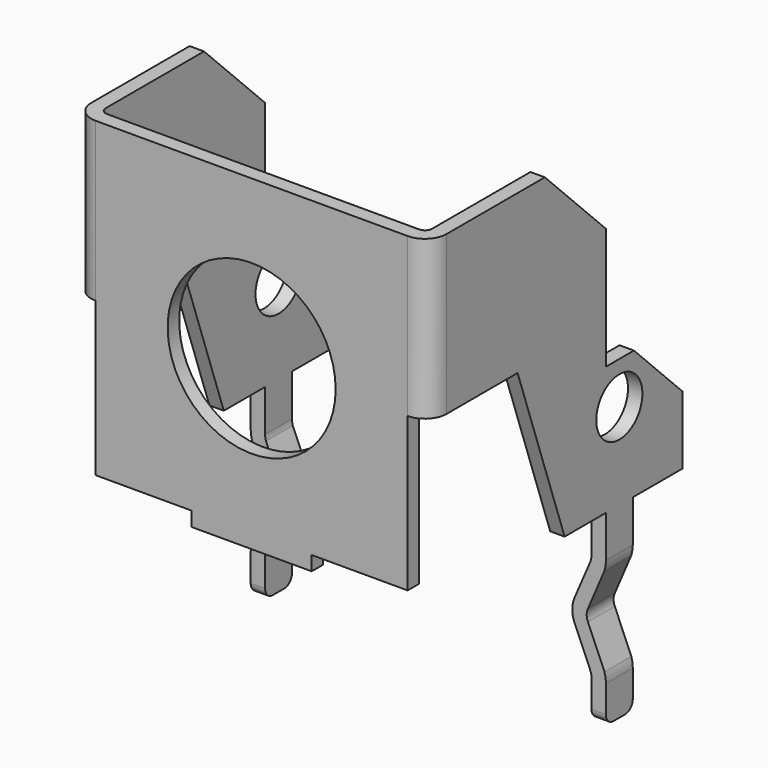
from build123d import *

# Parameters (mm, degrees)
PAD_DEPTH       = 3.7
POCKET_DEPTH    = 10.701
POCKET001_DEPTH = 1
POCKET002_DEPTH = 1
SKETCH004_R     = 0.6
POCKET003_DEPTH = 7.401
FILLET_R        = 0.45
SKETCH005_R     = 1.75
POCKET004_DEPTH = 6.601


with BuildPart() as part:
    # Sketch → Pad (new body, symmetric)
    with BuildSketch(Plane.YZ):
        with BuildLine():
            Line((-4.95, 0), (-4.95, 6.8))
            Line((-4.95, 6.8), (-1.94, 6.8))
            Line((-1.94, 6.8), (-0.35, 5.21))
            Line((-0.35, 5.21), (-0.35, 2.68))
            Line((-0.35, 2.68), (0.38, 2.68))
            Line((0.38, 2.68), (1.65, 1.41))
            Line((1.65, 1.41), (1.65, 0))
            Line((1.65, 0), (0.35, 0))
            Line((0.35, 0), (0.35, -3.7))
            ThreePointArc((0.15, -3.9), (0.291421, -3.841421), (0.35, -3.7))
            Line((0.15, -3.9), (-0.15, -3.9))
            ThreePointArc((-0.35, -3.7), (-0.291421, -3.841421), (-0.15, -3.9))
            Line((-0.35, -3.7), (-0.35, 0))
            Line((-0.35, 0), (-1.425, 0))
            Line((-1.425, 0), (-2.65, 3.5))
            Line((-2.65, 3.5), (-4.65, 3.5))
            Line((-4.65, 3.5), (-4.65, 0))
            Line((-4.65, 0), (-4.95, 0))
        make_face()
    extrude(amount=PAD_DEPTH, both=True)

    # Sketch001 (on Face8 of Pad) → Pocket (cut, through all)
    with BuildSketch(Plane(origin=(0, 0, 6.8), x_dir=(0, -1, 0), z_dir=(0, 0, 1))):
        with BuildLine():
            Line((-2.38, -3.4), (-0.35, -3.4))
            Line((-0.35, -3.4), (-0.35, -3))
            Line((-0.35, -3), (0.35, -3))
            Line((0.35, -3), (0.35, -3.4))
            Line((0.35, -3.4), (4.5, -3.4))
            ThreePointArc((4.5, -3.4), (4.606066, -3.356066), (4.65, -3.25))
            Line((4.65, -3.25), (4.65, 3.25))
            ThreePointArc((4.65, 3.25), (4.606066, 3.356066), (4.5, 3.4))
            Line((4.5, 3.4), (0.35, 3.4))
            Line((0.35, 3.4), (0.35, 3))
            Line((0.35, 3), (-0.38, 3))
            Line((-0.38, 3), (-0.38, 3.4))
            Line((-0.38, 3.4), (-2.38, 3.4))
            Line((-2.38, 3.4), (-2.38, -3.4))
        make_face()
    extrude(amount=-POCKET_DEPTH, mode=Mode.SUBTRACT)

    # Sketch002 (on Face33 of Pocket) → Pocket001 (cut, symmetric)
    with BuildSketch(Plane.ZX.offset(0.35)):
        with BuildLine():
            Line((-4.2, 3.4), (-3.13, 3.4))
            ThreePointArc((-3.013051, 3.382522), (-3.070876, 3.395606), (-3.13, 3.4))
            Line((-3.013051, 3.382522), (-2.244042, 3.051873))
            ThreePointArc((-2.244042, 3.051873), (-2, 3), (-1.755958, 3.051873))
            Line((-1.755958, 3.051873), (-0.986949, 3.382522))
            ThreePointArc((-0.87, 3.4), (-0.929124, 3.395606), (-0.986949, 3.382522))
            Line((-0.87, 3.4), (2.68, 3.4))
            Line((2.68, 3.4), (2.98, 3.4))
            Line((2.98, 3.4), (2.98, 2.7))
            Line((2.98, 2.7), (-4.2, 2.7))
            Line((-4.2, 2.7), (-4.2, 3))
            Line((-4.2, 3), (-4.2, 3.4))
        make_face()
        with BuildLine():
            ThreePointArc((-2.92534, 3.669413), (-3.026533, 3.692311), (-3.13, 3.7))
            Line((-3.13, 3.7), (-3.13, 3.9))
            Line((-3.13, 3.9), (-0.87, 3.9))
            Line((-0.87, 3.9), (-0.87, 3.7))
            ThreePointArc((-0.87, 3.7), (-0.973467, 3.692311), (-1.07466, 3.669413))
            Line((-1.877979, 3.325936), (-1.07466, 3.669413))
            ThreePointArc((-2.122021, 3.325936), (-2, 3.3), (-1.877979, 3.325936))
            Line((-2.92534, 3.669413), (-2.122021, 3.325936))
        make_face()
    pocket001 = extrude(amount=POCKET001_DEPTH, both=True, mode=Mode.SUBTRACT)

    # Mirrored: Pocket001 across Sketch002 H_Axis
    add(pocket001.mirror(Plane(origin=(0, 0.35, 0), x_dir=(0, 1, 0), z_dir=(1, 0, 0))), mode=Mode.SUBTRACT)

    # Sketch003 (on Face26 of Mirrored) → Pocket002 (cut)
    with BuildSketch(Plane(origin=(0, -4.95, 0), x_dir=(0, 0, -1), z_dir=(0, -1, 0))):
        Polygon((0, -1.25), (-0.3, -1.25), (-0.3, -3.25), (-3.5, -3.25), (-3.5, -3.7), (-3.5, -4.2), (0.5, -4.2), (0.5, -1.25), align=None)
    pocket002 = extrude(amount=-POCKET002_DEPTH, mode=Mode.SUBTRACT)

    # Mirrored001: Pocket002 across Sketch003 H_Axis
    add(pocket002.mirror(Plane(origin=(0, -4.95, 0), x_dir=(0, -1, 0), z_dir=(1, 0, 0))), mode=Mode.SUBTRACT)

    # Sketch004 (on Face9 of Mirrored001) → Pocket003 (cut, through all)
    with BuildSketch(Plane(origin=(-3.7, 0, 0), x_dir=(0, 1, 0), z_dir=(-1, 0, 0))):
        with Locations((0, -1.8)):
            Circle(SKETCH004_R)
    extrude(amount=-POCKET003_DEPTH, mode=Mode.SUBTRACT)

    # Fillet
    fillet_edges = [part.edges().sort_by_distance(p)[0] for p in [
        (-3.7, -4.95, 5.15),
        (3.7, -4.95, 5.15),
    ]]
    fillet(fillet_edges, radius=FILLET_R)

    # Sketch005 (on Face20 of Fillet) → Pocket004 (cut, through all)
    with BuildSketch(Plane.XZ.offset(4.95)):
        with Locations((0, 3.5)):
            Circle(SKETCH005_R)
    extrude(amount=-POCKET004_DEPTH, mode=Mode.SUBTRACT)


solid = part.part
